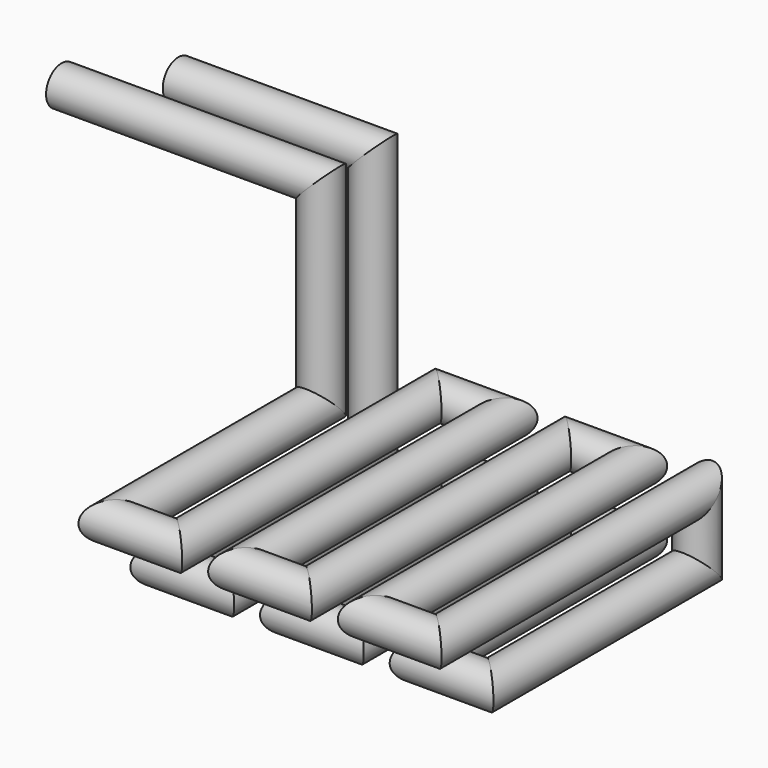
from build123d import *

# Parameters (mm, degrees)
F8_R = 15


with BuildPart() as f9:
    # F9: sweep along a path in F6, F5, F4, F1, F2
    with BuildLine(Plane.XZ.offset(50)) as f9_path:
        Line((-300, 200), (-100, 200))
        Line((-100, 200), (-100, 50))
    with BuildLine(Plane.XY.offset(50)) as f9_path_2:
        Line((-100, -50), (-100, -250))
        Line((-100, -250), (-50, -250))
        Line((-50, -250), (-50, 0))
        Line((-50, 0), (0, 0))
        Line((0, 0), (0, -250))
        Line((0, -250), (50, -250))
        Line((50, -250), (50, 0))
        Line((50, 0), (100, 0))
        Line((100, 0), (100, -250))
        Line((100, -250), (150, -250))
        Line((150, -250), (150, 0))
    with BuildLine(Plane.XZ) as f9_path_3:
        Line((150, 0), (150, 50))
    with BuildLine(Plane.XY) as f9_path_4:
        Line((150, 0), (150, -200))
        Line((150, -200), (100, -200))
        Line((100, -200), (100, 0))
        Line((100, 0), (50, 0))
        Line((50, 0), (50, -200))
        Line((50, -200), (0, -200))
        Line((0, -200), (0, 0))
        Line((0, 0), (-50, 0))
        Line((-50, 0), (-50, -200))
        Line((-50, -200), (-100, -200))
        Line((-100, -200), (-100, 0))
    with BuildLine(Plane.XZ) as f9_path_5:
        Line((-100, 0), (-100, 200))
        Line((-100, 200), (-250, 200))
    # F8 (on offset) → F9 (sweep)
    with BuildSketch(Plane.YZ.offset(-300)):
        with Locations((-50, 200)):
            Circle(F8_R)
    sweep(path=f9_path.line + f9_path_2.line + f9_path_3.line + f9_path_4.line + f9_path_5.line, transition=Transition.RIGHT)


solid = f9.part
